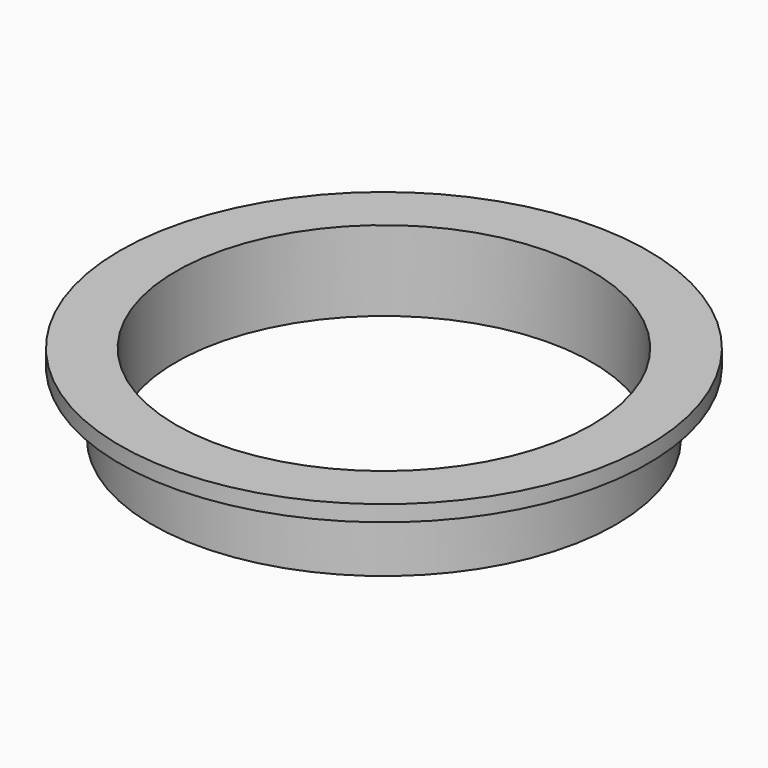
from build123d import *

# Parameters (mm, degrees)
F0_R     = 14.5
F0_R_2   = 13
F1_DEPTH = 5
F2_W     = 2
F2_H     = 1


with BuildPart() as f1:
    # F0 (on Top) → F1 (new body)
    with BuildSketch(Plane.XY):
        Circle(F0_R)
        Circle(F0_R_2, mode=Mode.SUBTRACT)
    extrude(amount=F1_DEPTH)

    # F2 (on Front) → F3 (revolve)
    with BuildSketch(Plane.XZ):
        with Locations((-15.5, 4.5)):
            Rectangle(F2_W, F2_H)
    revolve(axis=Axis((0, 0, 17.343897), (0, 0, 1)))


solid = f1.part
